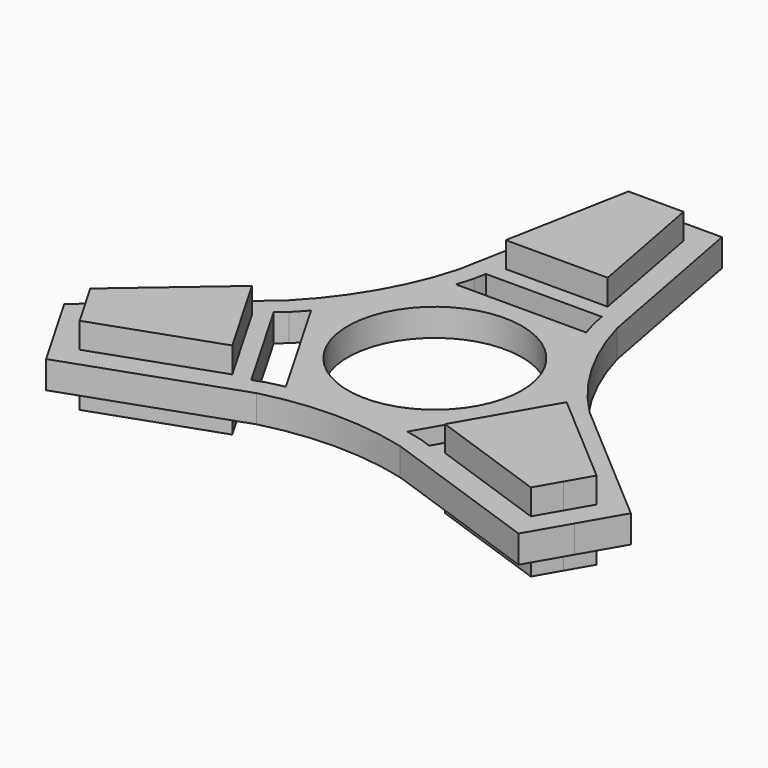
from build123d import *

# Parameters (mm, degrees)
F0_R     = 11.1
F1_DEPTH = 1.75
F2_DEPTH = 5


with BuildPart() as f1:
    # F0 (on Top) → F1 (new body, symmetric)
    with BuildSketch(Plane.XY):
        with BuildLine():
            Line((6, 38.218746), (0, 38.218746))
            Line((0, 38.218746), (-6, 38.218746))
            Line((-6, 38.218746), (-10.109618, 16.405044))
            ThreePointArc((-10.109618, 16.405044), (-13.665242, 7.889631), (-19.261994, 0.552664))
            Line((-19.261994, 0.552664), (-36.098405, -13.91322))
            Line((-36.098405, -13.91322), (-33.098405, -19.109373))
            Line((-33.098405, -19.109373), (-30.098405, -24.305525))
            Line((-30.098405, -24.305525), (-9.152376, -16.957708))
            ThreePointArc((-9.152376, -16.957708), (0, -15.779262), (9.152376, -16.957708))
            Line((9.152376, -16.957708), (30.098405, -24.305525))
            Line((30.098405, -24.305525), (33.098405, -19.109373))
            Line((33.098405, -19.109373), (36.098405, -13.91322))
            Line((36.098405, -13.91322), (19.261994, 0.552664))
            ThreePointArc((19.261994, 0.552664), (13.665242, 7.889631), (10.109618, 16.405044))
            Line((10.109618, 16.405044), (6, 38.218746))
        make_face()
        Polygon((-30.500328, -17.609373), (-32.256535, -14.567534), (-20.051088, -4.080584), (-13.559434, -15.32446), (-28.744122, -20.651212), align=None, mode=Mode.SUBTRACT)
        with BuildLine():
            Line((-9.885613, -14.565564), (-11.332004, -15.072955))
            Line((-11.332004, -15.072955), (-18.719564, -2.277326))
            Line((-18.719564, -2.277326), (-17.556955, -1.27841))
            ThreePointArc((-17.556955, -1.27841), (-16.789561, -0.483972), (-16.045193, 0.33208))
            Line((-16.045193, 0.33208), (-7.735007, -14.061585))
            ThreePointArc((-7.735007, -14.061585), (-8.813913, -14.2982), (-9.885613, -14.565564))
        make_face(mode=Mode.SUBTRACT)
        Circle(F0_R, mode=Mode.SUBTRACT)
        Polygon((30.500328, -17.609373), (28.744122, -20.651212), (13.559434, -15.32446), (20.051088, -4.080584), (32.256535, -14.567534), align=None, mode=Mode.SUBTRACT)
        with BuildLine():
            Line((17.556955, -1.27841), (18.719564, -2.277326))
            Line((18.719564, -2.277326), (11.332004, -15.072955))
            Line((11.332004, -15.072955), (9.885613, -14.565564))
            ThreePointArc((9.885613, -14.565564), (8.813913, -14.2982), (7.735007, -14.061585))
            Line((7.735007, -14.061585), (16.045193, 0.33208))
            ThreePointArc((16.045193, 0.33208), (16.789561, -0.483972), (17.556955, -1.27841))
        make_face(mode=Mode.SUBTRACT)
        with BuildLine():
            Line((8.310186, 13.729505), (-8.310186, 13.729505))
            ThreePointArc((-8.310186, 13.729505), (-7.975648, 14.782172), (-7.671342, 15.843974))
            Line((-7.671342, 15.843974), (-7.38756, 17.350281))
            Line((-7.38756, 17.350281), (7.38756, 17.350281))
            Line((7.38756, 17.350281), (7.671342, 15.843974))
            ThreePointArc((7.671342, 15.843974), (7.975648, 14.782172), (8.310186, 13.729505))
        make_face(mode=Mode.SUBTRACT)
        Polygon((6.491654, 19.405044), (-6.491654, 19.405044), (-3.512413, 35.218746), (0, 35.218746), (3.512413, 35.218746), align=None, mode=Mode.SUBTRACT)
    extrude(amount=F1_DEPTH, both=True)

    # F0 (on Top) → F2 (join, symmetric)
    with BuildSketch(Plane.XY):
        Polygon((13.559434, -15.32446), (28.744122, -20.651212), (30.500328, -17.609373), (32.256535, -14.567534), (20.051088, -4.080584), align=None)
        Polygon((-3.512413, 35.218746), (-6.491654, 19.405044), (6.491654, 19.405044), (3.512413, 35.218746), (0, 35.218746), align=None)
        Polygon((-20.051088, -4.080584), (-32.256535, -14.567534), (-30.500328, -17.609373), (-28.744122, -20.651212), (-13.559434, -15.32446), align=None)
    extrude(amount=F2_DEPTH, both=True)


solid = f1.part
